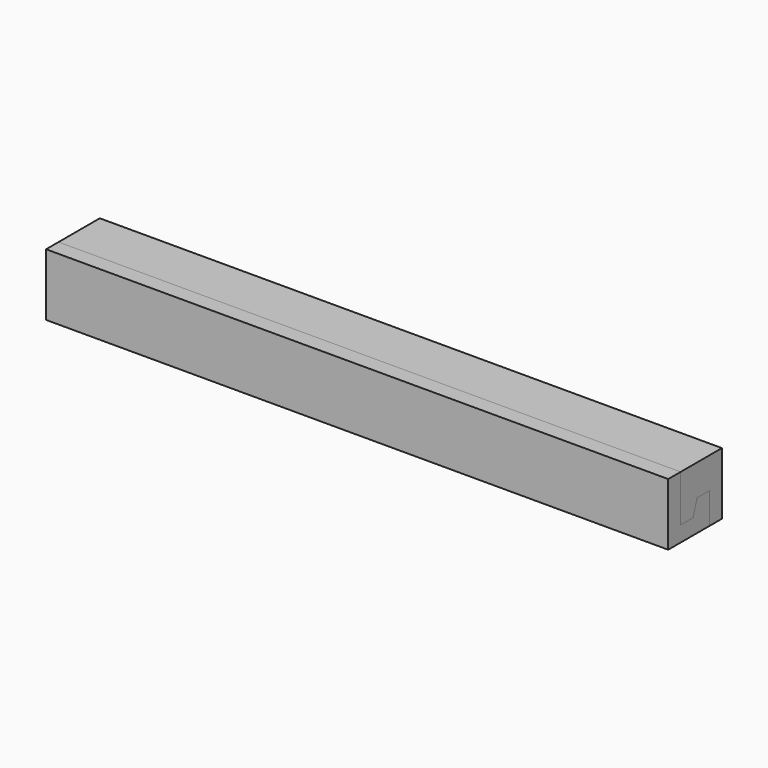
from build123d import *

# Parameters (mm, degrees)
F1_DEPTH = 254
F3_DEPTH = 254


with BuildPart() as f1:
    # F0 (on Right) → F1 (new body)
    with BuildSketch(Plane.YZ):
        Polygon((0, 25.4), (0, 0), (21.053882, 0), (21.053882, 12.7), (14.703882, 12.7), (12.7, 6.35), (6.35, 6.35), (6.35, 25.4), align=None)
    extrude(amount=F1_DEPTH)


with BuildPart() as f3:
    # F2 (on Right) → F3 (new body)
    with BuildSketch(Plane.YZ):
        Polygon((6.35, 25.4), (6.35, 6.35), (12.7, 6.35), (14.703882, 12.7), (21.053882, 12.7), (21.053882, 0), (27.403882, 0), (27.403882, 25.4), align=None)
    extrude(amount=F3_DEPTH)


solid = Compound([f1.part, f3.part])
